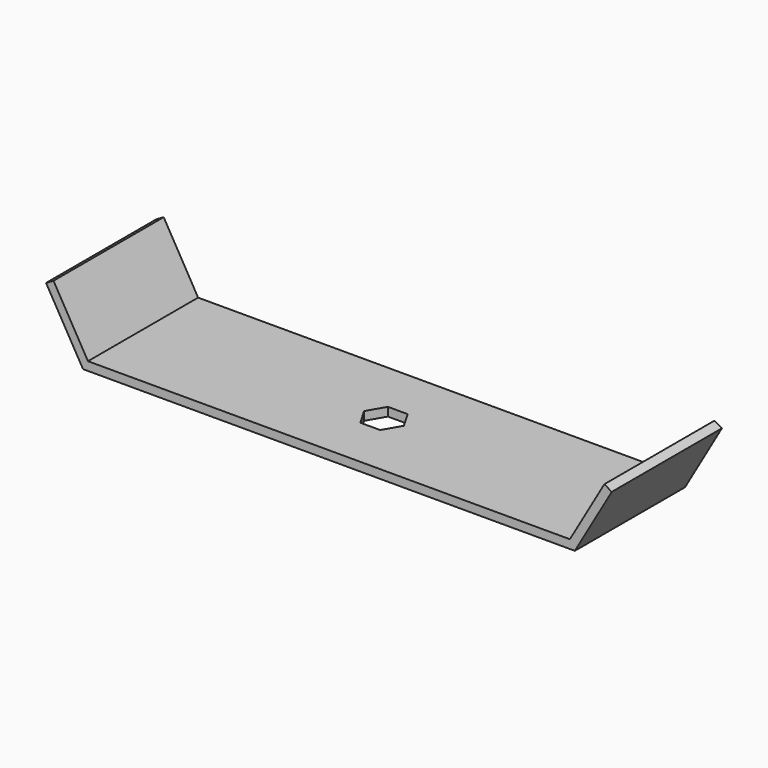
from build123d import *

# Parameters (mm, degrees)
F0_W     = 177.8
F0_H     = 50.8
F1_DEPTH = 3.175
F3_DEPTH = 25.4


with BuildPart() as f1:
    # F0 (on Top) → F1 (new body)
    with BuildSketch(Plane.XY):
        Rectangle(F0_W, F0_H)
        Polygon((-3.6661742094, -6.35), (-7.3323484187, 0), (-3.6661742094, 6.35), (3.6661742094, 6.35), (7.3323484187, 0), (3.6661742094, -6.35), align=None, mode=Mode.SUBTRACT)
    extrude(amount=F1_DEPTH)

    # F2 (on Front) → F3 (join, symmetric)
    with BuildSketch(Plane.XZ):
        Polygon((-104.349630657, 23.5845452561), (-90.7330871047, 0), (-88.9, 0), (-88.9, 3.175), (-101.6, 25.1720452561), align=None)
        Polygon((104.349630657, 23.5845452561), (101.6, 25.1720452561), (88.9, 3.175), (88.9, 0), (90.7330871047, 0), align=None)
    extrude(amount=F3_DEPTH, both=True)


solid = f1.part
